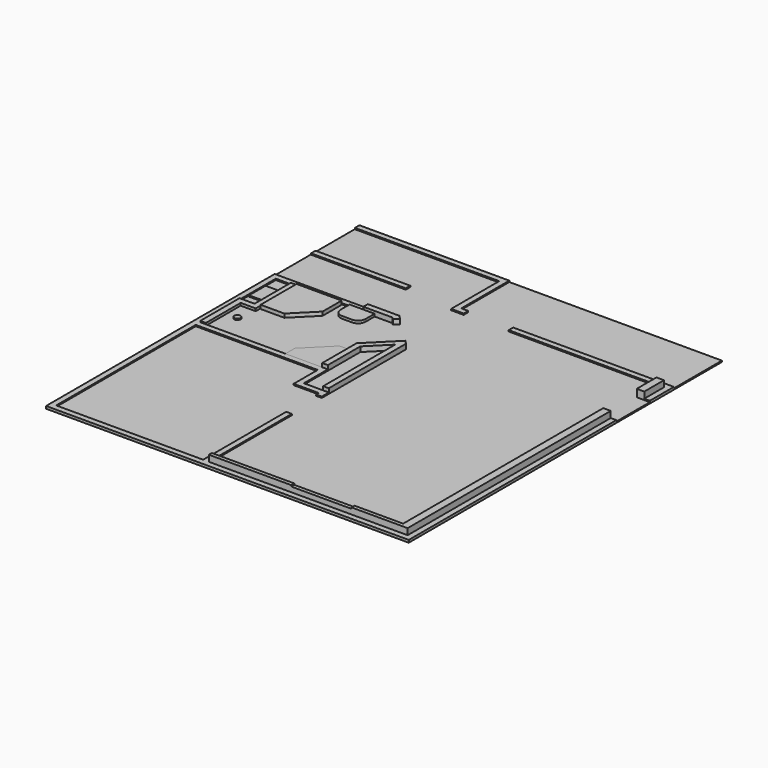
from build123d import *

# Parameters (mm, degrees)
F0_W      = 7366
F0_H      = 7950.2
F1_DEPTH  = 25.4
F2_W      = 1924.3610328674
F2_H      = 114.3
F3_DEPTH  = 25.4
F4_R      = 63.5
F4_W      = 254
F4_H      = 419.1
F4_R_2    = 44.45
F5_DEPTH  = 25.4
F7_DEPTH  = 50.8
F9_DEPTH  = 76.2
F11_DEPTH = 101.6
F13_DEPTH = 12.7
F16_DEPTH = 50.8
F17_W     = 152.4
F17_H     = 499.8619333267
F18_DEPTH = 152.4
F19_W     = 1219.2
F19_H     = 76.2
F20_DEPTH = 25.4


with BuildPart() as f1:
    # F0 (on Top) → F1 (new body)
    with BuildSketch(Plane.XY):
        with Locations((-3683, 3975.1)):
            Rectangle(F0_W, F0_H)
    extrude(amount=F1_DEPTH)

    # F2 (on face) → F3 (join)
    with BuildSketch(Plane.XY.offset(25.4)):
        Polygon((-7366, 0), (0, 0), (0, 5270.5), (-114.3, 5270.5), (-114.3, 114.3), (-4152.9, 114.3), (-4152.9, 2222.5), (-4267.2, 2222.5), (-4267.2, 114.3), (-7251.7, 114.3), (-7251.7, 3657.6), (-4775.2, 3657.6), (-4775.2, 3048), (-4267.2, 3048), (-4267.2, 2984.5), (-4152.9, 2984.5), (-4152.9, 3162.3), (-4660.9, 3162.3), (-4660.9, 3771.9), (-7251.7, 3771.9), (-7251.7, 5689.6), (-5473.7, 5689.6), (-5473.7, 5803.9), (-7366, 5803.9), (-7366, 3657.6), align=None)
        Polygon((-114.3, 6121.4), (0, 6121.4), (0, 6731), (-3263.9, 6731), (-3263.9, 6616.7), (-114.3, 6616.7), align=None)
        Polygon((-4432.3, 6616.7), (-4178.3, 6616.7), (-4178.3, 6731), (-4318, 6731), (-4318, 7950.2), (-7362.9240081787, 7950.2), (-7362.9240081787, 7835.9), (-4432.3, 7835.9), align=None)
        with Locations((-6397.7805164337, 6775.45)):
            Rectangle(F2_W, F2_H)
    extrude(amount=F3_DEPTH)

    # F4 (on face) → F5 (join)
    with BuildSketch(Plane.XY.offset(25.4)):
        with Locations((-6908.8, 4286.25)):
            Circle(F4_R)
        with Locations((-7099.3, 5187.95)):
            Rectangle(F4_W, F4_H)
        with Locations((-7200.9, 4692.65)):
            Circle(F4_R_2)
    extrude(amount=F5_DEPTH)

    # F6 (on face) → F7 (join)
    with BuildSketch(Plane.XY.offset(25.4)):
        Polygon((-6832.6, 5689.6), (-6946.9, 5689.6), (-6946.9, 4768.85), (-7251.7, 4768.85), (-7251.7, 3771.9), (-7137.4, 3771.9), (-7137.4, 4654.55), (-6832.6, 4654.55), align=None)
    extrude(amount=F7_DEPTH)

    # F8 (on face) → F9 (join)
    with BuildSketch(Plane.XY.offset(25.4)):
        Polygon((-5905.5, 5676.9), (-6819.9, 5676.9), (-6819.9, 4762.5), (-6337.3, 4762.5), (-5905.5, 5194.3), align=None)
    extrude(amount=F9_DEPTH)

    # F10 (on face) → F11 (join)
    with BuildSketch(Plane.XY.offset(25.4)):
        Polygon((-5473.7, 5803.9), (-5473.7, 5689.6), (-4882.7440753805, 5689.6), (-4844.3797213223, 5651.2356459418), (-4763.5574162327, 5732.0579510314), (-4835.3994652013, 5803.9), align=None)
        Polygon((-4775.2, 4597.4), (-4775.2, 3771.9), (-4660.9, 3771.9), (-4660.9, 4595.4400225566), (-4267.2, 4989.1400225566), (-4267.2, 4991.1), (-4265.2400225566, 4991.1), (-4152.9, 5103.4400225566), (-4152.9, 5105.4), (-4152.9, 5121.4005347987), (-4224.7420489686, 5193.2425837673), (-4305.5643540582, 5112.4202786777), (-4775.2, 4642.7846327359), align=None)
        Polygon((-4265.2400225566, 4991.1), (-4267.2, 4989.1400225566), (-4267.2, 3162.3), (-4152.9, 3162.3), (-4152.9, 5103.4400225566), align=None)
        Polygon((-4267.2, 4991.1), (-4267.2, 4989.1400225566), (-4265.2400225566, 4991.1), align=None)
    extrude(amount=F11_DEPTH)

    # F12 (on face) → F13 (join)
    with BuildSketch(Plane.XY.offset(25.4)):
        Polygon((-5537.2, 3771.9), (-4775.2, 3771.9), (-4775.2, 4533.9), (-5034.3056572201, 4533.9), (-5537.2, 4031.0056572201), align=None)
    extrude(amount=F13_DEPTH)

    # F15 (on face) → F16 (join)
    with BuildSketch(Plane.XY.offset(25.4)):
        with BuildLine():
            Line((-5245.1, 5689.6), (-5753.1, 5689.6))
            Line((-5753.1, 5689.6), (-5753.1, 5461))
            ThreePointArc((-5753.1, 5461), (-5708.4630734528, 5353.2369265472), (-5600.7, 5308.6))
            Line((-5600.7, 5308.6), (-5397.5, 5308.6))
            ThreePointArc((-5397.5, 5308.6), (-5289.7369265472, 5353.2369265472), (-5245.1, 5461))
            Line((-5245.1, 5461), (-5245.1, 5689.6))
        make_face()
    extrude(amount=F16_DEPTH)

    # F17 (on face) → F18 (join)
    with BuildSketch(Plane.XY.offset(25.4)):
        Polygon((-266.7, 190.5), (-4152.9, 190.5), (-4152.9, 114.3), (-114.3, 114.3), (-114.3, 190.5), (-114.3, 5270.5), (-266.7, 5270.5), align=None)
        with Locations((-190.5, 6371.3309666634)):
            Rectangle(F17_W, F17_H)
    extrude(amount=F18_DEPTH)

    # F19 (on face) → F20 (cut)
    with BuildSketch(Plane.XY.offset(177.8)):
        with Locations((-1866.9, 152.4)):
            Rectangle(F19_W, F19_H)
    extrude(amount=-F20_DEPTH, mode=Mode.SUBTRACT)


solid = f1.part
